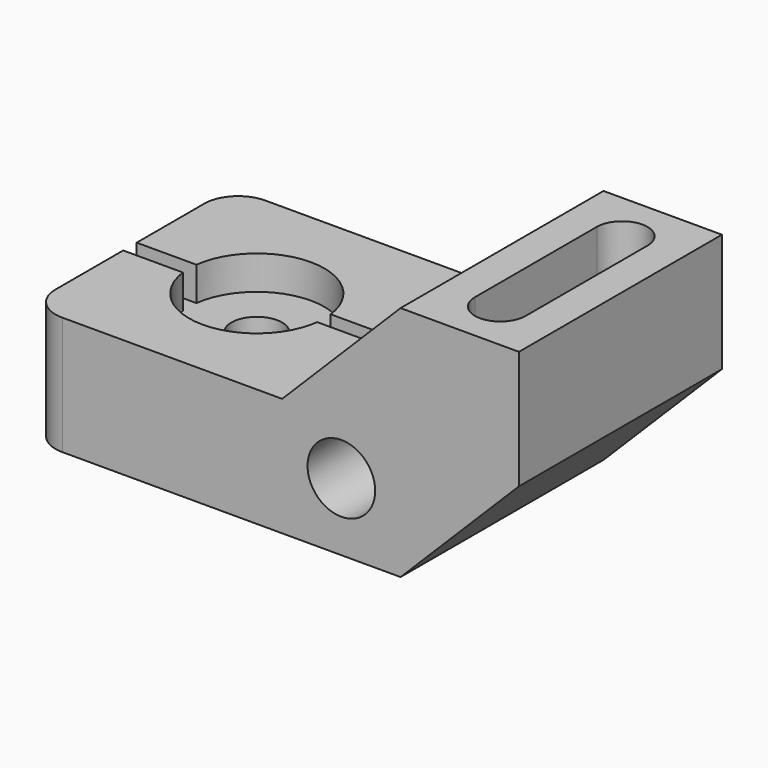
from build123d import *

# Parameters (mm, degrees)
F0_W            = 147.32
F0_H            = 76.2
F1_DEPTH        = 71.12
F3_DEPTH        = 76.201
F5_DEPTH        = 76.201
F6_R            = 10.16
F7_W            = 76.2
F7_H            = 5.08
F8_DEPTH        = 10.16
F10_D           = 15.24
F10_CBORE_D     = 40.64
F10_CBORE_DEPTH = 10.16
F12_DEPTH       = 27.94
F13_R           = 10.16
F14_DEPTH       = 76.201


with BuildPart() as f1:
    # F0 (on Top) → F1 (new body)
    with BuildSketch(Plane.XY):
        with Locations((73.66, 38.1)):
            Rectangle(F0_W, F0_H)
    extrude(amount=F1_DEPTH)

    # F2 (on face) → F3 (cut, through all)
    with BuildSketch(Plane.XZ):
        Polygon((111.76, 0), (147.32, 0), (147.32, 35.56), align=None)
    extrude(amount=-F3_DEPTH, mode=Mode.SUBTRACT)

    # F4 (on face) → F5 (cut, through all)
    with BuildSketch(Plane.XZ):
        Polygon((0, 71.12), (0, 35.56), (76.2, 35.56), (111.76, 71.12), align=None)
    extrude(amount=-F5_DEPTH, mode=Mode.SUBTRACT)

    # F6
    f6_edges = [f1.edges().sort_by_distance(p)[0] for p in [
        (0, 0, 17.78),
        (0, 76.2, 17.78),
    ]]
    fillet(f6_edges, radius=F6_R)

    # F7 (on face) → F8 (cut)
    with BuildSketch(Plane.XY.offset(35.56)):
        with Locations((38.1, 38.1)):
            Rectangle(F7_W, F7_H)
    extrude(amount=-F8_DEPTH, mode=Mode.SUBTRACT)

    # F10 (through all)
    with Locations(Plane.XY.offset(35.56)):
        with Locations((38.1, 38.1)):
            CounterBoreHole(F10_D / 2, F10_CBORE_D / 2, F10_CBORE_DEPTH)

    # F11 (on face) → F12 (cut)
    with BuildSketch(Plane.XY.offset(71.12)):
        with BuildLine():
            Line((137.16, 15.24), (137.16, 60.96))
            ThreePointArc((137.16, 60.96), (129.54, 68.58), (121.92, 60.96))
            Line((121.92, 60.96), (121.92, 15.24))
            ThreePointArc((121.92, 15.24), (129.54, 7.62), (137.16, 15.24))
        make_face()
    extrude(amount=-F12_DEPTH, mode=Mode.SUBTRACT)

    # F13 (on face) → F14 (cut, through all)
    with BuildSketch(Plane.XZ):
        with Locations((93.98, 20.32)):
            Circle(F13_R)
    extrude(amount=-F14_DEPTH, mode=Mode.SUBTRACT)


solid = f1.part
